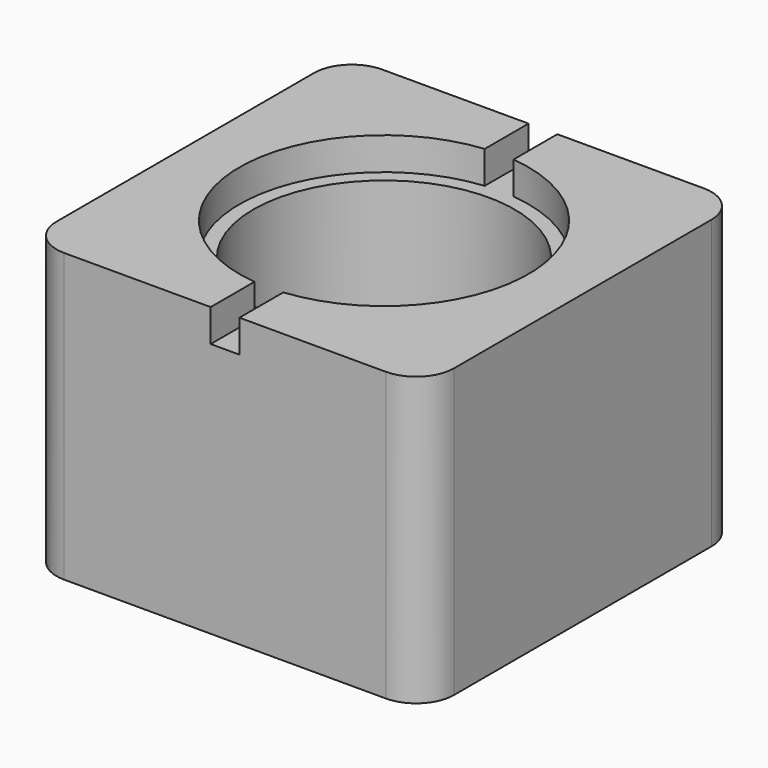
from build123d import *

# Parameters (mm, degrees)
F0_W     = 13.335
F0_H     = 13.335
F0_R     = 4.3815
F1_DEPTH = 9.652
F2_W     = 0.9652
F2_H     = 13.335
F3_DEPTH = 1.0922
F4_R     = 1.27
F5_R     = 4.8514
F6_DEPTH = 1.0922
F7_W     = 13.335
F7_H     = 4.872686
F8_DEPTH = 0.254


with BuildPart() as f1:
    # F0 (on Top) → F1 (new body)
    with BuildSketch(Plane.XY):
        Rectangle(F0_W, F0_H)
        Circle(F0_R, mode=Mode.SUBTRACT)
    extrude(amount=F1_DEPTH)

    # F2 (on face) → F3 (cut)
    with BuildSketch(Plane.XY.offset(9.652)):
        Rectangle(F2_W, F2_H)
    extrude(amount=-F3_DEPTH, mode=Mode.SUBTRACT)

    # F4
    f4_edges = [f1.edges().sort_by_distance(p)[0] for p in [
        (-6.6675, -6.6675, 4.826),
        (6.6675, -6.6675, 4.826),
        (6.6675, 6.6675, 4.826),
        (-6.6675, 6.6675, 4.826),
    ]]
    fillet(f4_edges, radius=F4_R)

    # F5 (on face) → F6 (cut)
    with BuildSketch(Plane.XY.offset(9.652)):
        Circle(F5_R)
    extrude(amount=-F6_DEPTH, mode=Mode.SUBTRACT)

    # F7 (on face) → F8 (join)
    with BuildSketch(Plane(origin=(0, 0, 0), x_dir=(1, 0, 0), z_dir=(0, 0, -1))):
        with Locations((0, -2.436343)):
            Rectangle(F7_W, F7_H)
    extrude(amount=-F8_DEPTH)


solid = f1.part
